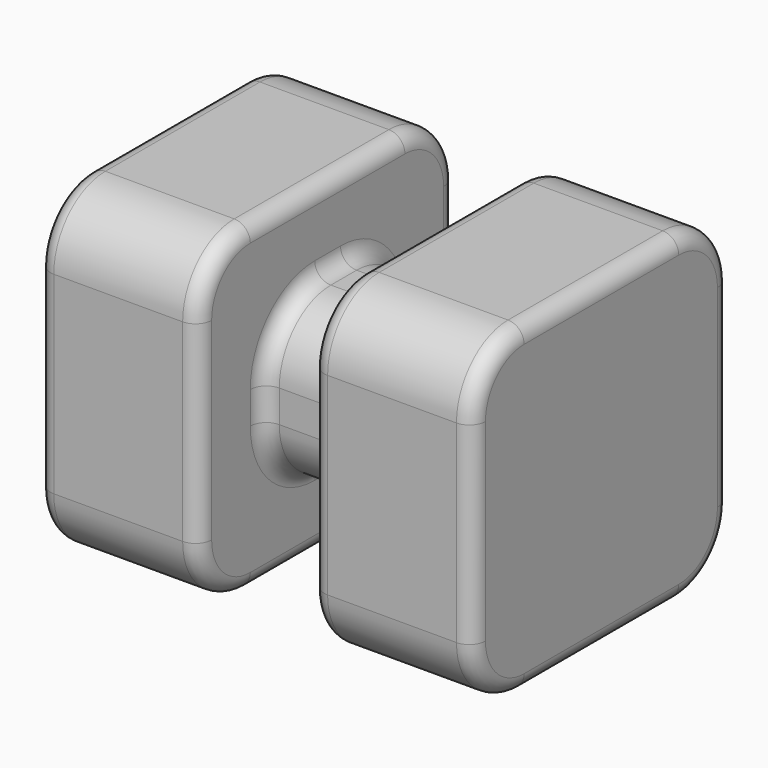
from build123d import *

# Parameters (mm, degrees)
F0_W     = 100
F0_H     = 100
F1_DEPTH = 50
F2_W     = 50
F2_H     = 50
F3_DEPTH = 35
F4_W     = 100
F4_H     = 100
F5_DEPTH = 50
F6_R     = 20
F7_R     = 5


with BuildPart() as f1:
    # F0 (on Right) → F1 (new body)
    with BuildSketch(Plane.YZ):
        Rectangle(F0_W, F0_H)
    extrude(amount=F1_DEPTH)

    # F2 (on face) → F3 (join)
    with BuildSketch(Plane.YZ.offset(50)):
        Rectangle(F2_W, F2_H)
    extrude(amount=F3_DEPTH)

    # F4 (on face) → F5 (join)
    with BuildSketch(Plane.YZ.offset(85)):
        Rectangle(F4_W, F4_H)
    extrude(amount=F5_DEPTH)

    # F6
    f6_edges = [f1.edges().sort_by_distance(p)[0] for p in [
        (110, 50, -50),
        (25, 50, -50),
        (25, 50, 50),
        (110, 50, 50),
        (25, -50, -50),
        (110, -50, -50),
        (25, -50, 50),
        (110, -50, 50),
        (67.5, 25, -25),
        (67.5, 25, 25),
        (67.5, -25, -25),
        (67.5, -25, 25),
    ]]
    fillet(f6_edges, radius=F6_R)

    # F7
    f7_edges = [f1.edges().sort_by_distance(p)[0] for p in [
        (50, -19.142136, 19.142136),
        (50, -50, 0),
        (85, -50, 0),
        (135, -50, 0),
        (0, -50, 0),
        (85, -19.142136, 19.142136),
    ]]
    fillet(f7_edges, radius=F7_R)


solid = f1.part
